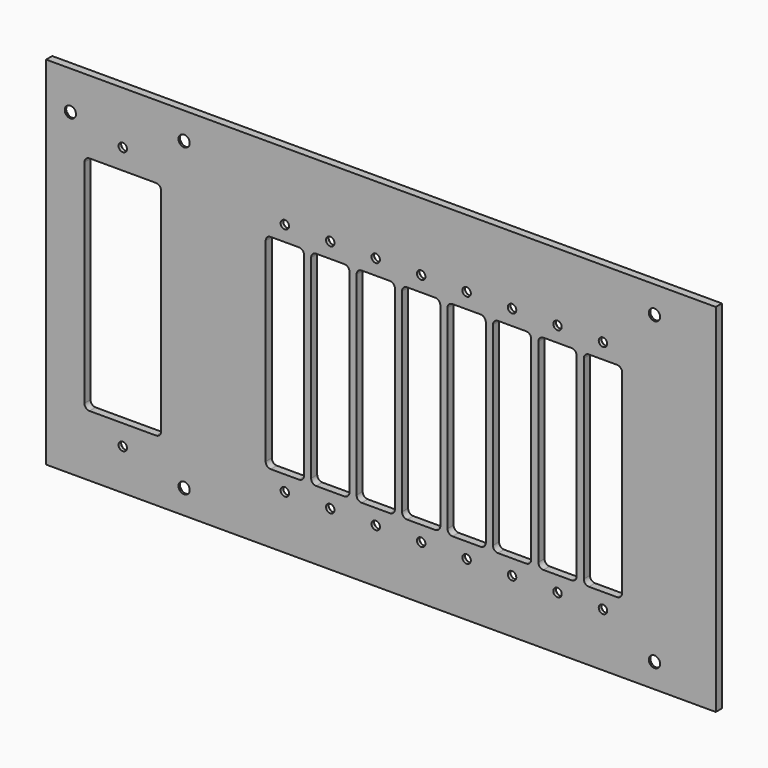
from build123d import *

# Parameters (mm, degrees)
F0_W            = 262
F0_H            = 139.5
F1_DEPTH        = 3
F3_DEPTH        = 3.001
F5_D            = 3.3
F5_CSINK_D      = 6.72
F5_CSINK_ANGLE  = 90
F7_D            = 3.3
F7_CSINK_D      = 6.72
F7_CSINK_ANGLE  = 90
F8_DEPTH        = 3.001
F10_D           = 4.4
F10_CSINK_D     = 8.96
F10_CSINK_ANGLE = 90


with BuildPart() as f1:
    # F0 (on Front) → F1 (new body)
    with BuildSketch(Plane.XZ):
        with Locations((131, 69.75)):
            Rectangle(F0_W, F0_H)
    extrude(amount=F1_DEPTH)

    # F2 (on face) → F3 (cut, through all)
    with BuildSketch(Plane(origin=(0, 0, 0), x_dir=(-1, 0, 0), z_dir=(0, 1, 0))):
        with BuildLine():
            Line((-30, 111), (-43, 111))
            ThreePointArc((-43, 111), (-44.4142135624, 110.4142135624), (-45, 109))
            Line((-45, 109), (-45, 26))
            ThreePointArc((-45, 26), (-44.4142135624, 24.5857864376), (-43, 24))
            Line((-43, 24), (-30, 24))
            Line((-30, 24), (-30, 111))
        make_face()
        with BuildLine():
            Line((-17, 111), (-30, 111))
            Line((-30, 111), (-30, 24))
            Line((-30, 24), (-17, 24))
            ThreePointArc((-17, 24), (-15.5857864376, 24.5857864376), (-15, 26))
            Line((-15, 26), (-15, 109))
            ThreePointArc((-15, 109), (-15.5857864376, 110.4142135624), (-17, 111))
        make_face()
    extrude(amount=-F3_DEPTH, mode=Mode.SUBTRACT)

    # F5 (through all)
    with Locations(Plane(origin=(0, 0, 0), x_dir=(-1, 0, 0), z_dir=(0, 1, 0))):
        with Locations((-30, 119), (-30, 16)):
            CounterSinkHole(F5_D / 2, F5_CSINK_D / 2, counter_sink_angle=F5_CSINK_ANGLE)

    # F7 (through all)
    with Locations(Plane(origin=(0, 0, 0), x_dir=(-1, 0, 0), z_dir=(0, 1, 0))):
        with Locations((-217.86, 113), (-200.08, 113), (-182.3, 113), (-164.52, 113), (-146.74, 113), (-128.96, 113), (-111.18, 113), (-93.4, 113), (-93.4, 21), (-111.18, 21), (-146.74, 21), (-164.52, 21), (-128.96, 21), (-182.3, 21), (-217.86, 21), (-200.08, 21)):
            CounterSinkHole(F7_D / 2, F7_CSINK_D / 2, counter_sink_angle=F7_CSINK_ANGLE)

    # F6 (on face) → F8 (cut, through all)
    with BuildSketch(Plane(origin=(0, 0, 0), x_dir=(-1, 0, 0), z_dir=(0, 1, 0))):
        with BuildLine():
            Line((-98.9, 27), (-87.9, 27))
            ThreePointArc((-87.9, 27), (-86.4857864376, 27.5857864376), (-85.9, 29))
            Line((-85.9, 29), (-85.9, 105))
            ThreePointArc((-85.9, 105), (-86.4857864376, 106.4142135624), (-87.9, 107))
            Line((-87.9, 107), (-98.9, 107))
            ThreePointArc((-98.9, 107), (-100.3142135624, 106.4142135624), (-100.9, 105))
            Line((-100.9, 105), (-100.9, 29))
            ThreePointArc((-100.9, 29), (-100.3142135624, 27.5857864376), (-98.9, 27))
        make_face()
        with BuildLine():
            ThreePointArc((-103.68, 105), (-104.2657864376, 106.4142135624), (-105.68, 107))
            Line((-105.68, 107), (-116.68, 107))
            ThreePointArc((-116.68, 107), (-118.0942135624, 106.4142135624), (-118.68, 105))
            Line((-118.68, 105), (-118.68, 29))
            ThreePointArc((-118.68, 29), (-118.0942135624, 27.5857864376), (-116.68, 27))
            Line((-116.68, 27), (-105.68, 27))
            ThreePointArc((-105.68, 27), (-104.2657864376, 27.5857864376), (-103.68, 29))
            Line((-103.68, 29), (-103.68, 105))
        make_face()
        with BuildLine():
            ThreePointArc((-121.46, 105), (-122.0457864376, 106.4142135624), (-123.46, 107))
            Line((-123.46, 107), (-134.46, 107))
            ThreePointArc((-134.46, 107), (-135.8742135624, 106.4142135624), (-136.46, 105))
            Line((-136.46, 105), (-136.46, 29))
            ThreePointArc((-136.46, 29), (-135.8742135624, 27.5857864376), (-134.46, 27))
            Line((-134.46, 27), (-123.46, 27))
            ThreePointArc((-123.46, 27), (-122.0457864376, 27.5857864376), (-121.46, 29))
            Line((-121.46, 29), (-121.46, 105))
        make_face()
        with BuildLine():
            ThreePointArc((-139.24, 105), (-139.8257864376, 106.4142135624), (-141.24, 107))
            Line((-141.24, 107), (-152.24, 107))
            ThreePointArc((-152.24, 107), (-153.6542135624, 106.4142135624), (-154.24, 105))
            Line((-154.24, 105), (-154.24, 29))
            ThreePointArc((-154.24, 29), (-153.6542135624, 27.5857864376), (-152.24, 27))
            Line((-152.24, 27), (-141.24, 27))
            ThreePointArc((-141.24, 27), (-139.8257864376, 27.5857864376), (-139.24, 29))
            Line((-139.24, 29), (-139.24, 105))
        make_face()
        with BuildLine():
            ThreePointArc((-157.02, 105), (-157.6057864376, 106.4142135624), (-159.02, 107))
            Line((-159.02, 107), (-170.02, 107))
            ThreePointArc((-170.02, 107), (-171.4342135624, 106.4142135624), (-172.02, 105))
            Line((-172.02, 105), (-172.02, 29))
            ThreePointArc((-172.02, 29), (-171.4342135624, 27.5857864376), (-170.02, 27))
            Line((-170.02, 27), (-159.02, 27))
            ThreePointArc((-159.02, 27), (-157.6057864376, 27.5857864376), (-157.02, 29))
            Line((-157.02, 29), (-157.02, 105))
        make_face()
        with BuildLine():
            ThreePointArc((-174.8, 105), (-175.3857864376, 106.4142135624), (-176.8, 107))
            Line((-176.8, 107), (-187.8, 107))
            ThreePointArc((-187.8, 107), (-189.2142135624, 106.4142135624), (-189.8, 105))
            Line((-189.8, 105), (-189.8, 29))
            ThreePointArc((-189.8, 29), (-189.2142135624, 27.5857864376), (-187.8, 27))
            Line((-187.8, 27), (-176.8, 27))
            ThreePointArc((-176.8, 27), (-175.3857864376, 27.5857864376), (-174.8, 29))
            Line((-174.8, 29), (-174.8, 105))
        make_face()
        with BuildLine():
            ThreePointArc((-192.58, 105), (-193.1657864376, 106.4142135624), (-194.58, 107))
            Line((-194.58, 107), (-205.58, 107))
            ThreePointArc((-205.58, 107), (-206.9942135624, 106.4142135624), (-207.58, 105))
            Line((-207.58, 105), (-207.58, 29))
            ThreePointArc((-207.58, 29), (-206.9942135624, 27.5857864376), (-205.58, 27))
            Line((-205.58, 27), (-194.58, 27))
            ThreePointArc((-194.58, 27), (-193.1657864376, 27.5857864376), (-192.58, 29))
            Line((-192.58, 29), (-192.58, 105))
        make_face()
        with BuildLine():
            ThreePointArc((-210.36, 105), (-210.9457864376, 106.4142135624), (-212.36, 107))
            Line((-212.36, 107), (-223.36, 107))
            ThreePointArc((-223.36, 107), (-224.7742135624, 106.4142135624), (-225.36, 105))
            Line((-225.36, 105), (-225.36, 29))
            ThreePointArc((-225.36, 29), (-224.7742135624, 27.5857864376), (-223.36, 27))
            Line((-223.36, 27), (-212.36, 27))
            ThreePointArc((-212.36, 27), (-210.9457864376, 27.5857864376), (-210.36, 29))
            Line((-210.36, 29), (-210.36, 105))
        make_face()
    extrude(amount=-F8_DEPTH, mode=Mode.SUBTRACT)

    # F10 (through all)
    with Locations(Plane(origin=(0, 0, 0), x_dir=(-1, 0, 0), z_dir=(0, 1, 0))):
        with Locations((-9.5, 124.5), (-238, 129), (-54, 129), (-238, 9.5), (-54, 9.5)):
            CounterSinkHole(F10_D / 2, F10_CSINK_D / 2, counter_sink_angle=F10_CSINK_ANGLE)


solid = f1.part
